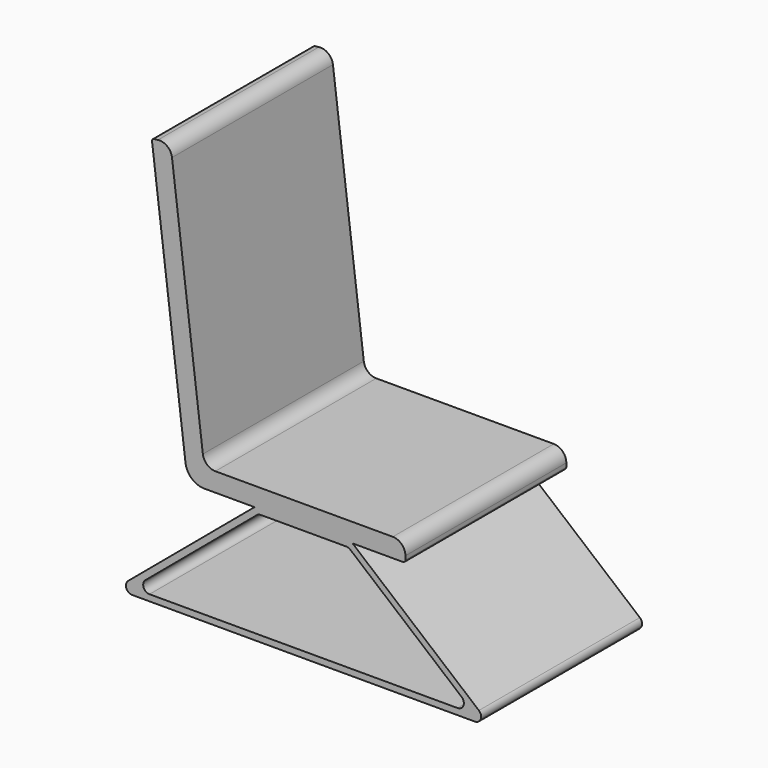
from build123d import *

# Parameters (mm, degrees)
F1_DEPTH = 406.4


with BuildPart() as f1:
    # F0 (on Front) → F1 (new body)
    with BuildSketch(Plane.XZ):
        with BuildLine():
            Line((-191.105931, -266.675295), (-228.921497, -271.322122))
            ThreePointArc((-228.921497, -271.322122), (-216.350395, -295.211711), (-191.105931, -304.775295))
            Line((-191.105931, -304.775295), (-191.105931, -266.675295))
        make_face()
        with BuildLine():
            Line((-193.846445, -244.37318), (-256.161501, 262.742624))
            ThreePointArc((-256.161501, 262.742624), (-265.735985, 279.661703), (-284.469762, 284.855116))
            Line((-284.469762, 284.855116), (-292.441746, 283.875508))
            ThreePointArc((-292.441746, 283.875508), (-295.551163, 282.115894), (-296.505617, 278.672969))
            Line((-296.505617, 278.672969), (-228.921497, -271.322122))
            Line((-228.921497, -271.322122), (-191.105931, -266.675295))
            Line((-191.105931, -266.675295), (-191.105931, -304.775295))
            Line((-191.105931, -304.775295), (-89.505931, -304.775295))
            Line((-89.505931, -304.775295), (108.589325, -304.775295))
            Line((108.589325, -304.775295), (210.189325, -304.775295))
            ThreePointArc((210.189325, -304.775295), (213.798924, -303.280151), (215.294069, -299.670552))
            Line((215.294069, -299.670552), (215.294069, -292.075295))
            ThreePointArc((215.294069, -292.075295), (207.854581, -274.114783), (189.894069, -266.675295))
            Line((189.894069, -266.675295), (-168.636068, -266.675295))
            ThreePointArc((-168.636068, -266.675295), (-185.46571, -260.299573), (-193.846445, -244.37318))
        make_face()
        with BuildLine():
            Line((108.589325, -304.775295), (-89.505931, -304.775295))
            Line((-89.505931, -304.775295), (-344.728743, -518.932662))
            ThreePointArc((-344.728743, -518.932662), (-348.499436, -533.005082), (-336.56534, -541.361427))
            Line((-336.56534, -541.361427), (355.648734, -541.361427))
            ThreePointArc((355.648734, -541.361427), (367.58283, -533.005082), (363.812136, -518.932662))
            Line((363.812136, -518.932662), (108.589325, -304.775295))
        make_face()
        with BuildLine():
            Line((-309.835779, -506.232662), (-84.880484, -317.472757))
            ThreePointArc((-84.880484, -317.472757), (-81.060737, -315.267425), (-76.717081, -314.501521))
            Line((-76.717081, -314.501521), (95.800475, -314.501521))
            ThreePointArc((95.800475, -314.501521), (100.144131, -315.267425), (103.963877, -317.472757))
            Line((103.963877, -317.472757), (328.919173, -506.232662))
            ThreePointArc((328.919173, -506.232662), (332.689867, -520.305082), (320.75577, -528.661427))
            Line((320.75577, -528.661427), (-301.672377, -528.661427))
            ThreePointArc((-301.672377, -528.661427), (-313.606473, -520.305082), (-309.835779, -506.232662))
        make_face(mode=Mode.SUBTRACT)
    extrude(amount=F1_DEPTH)


solid = f1.part
